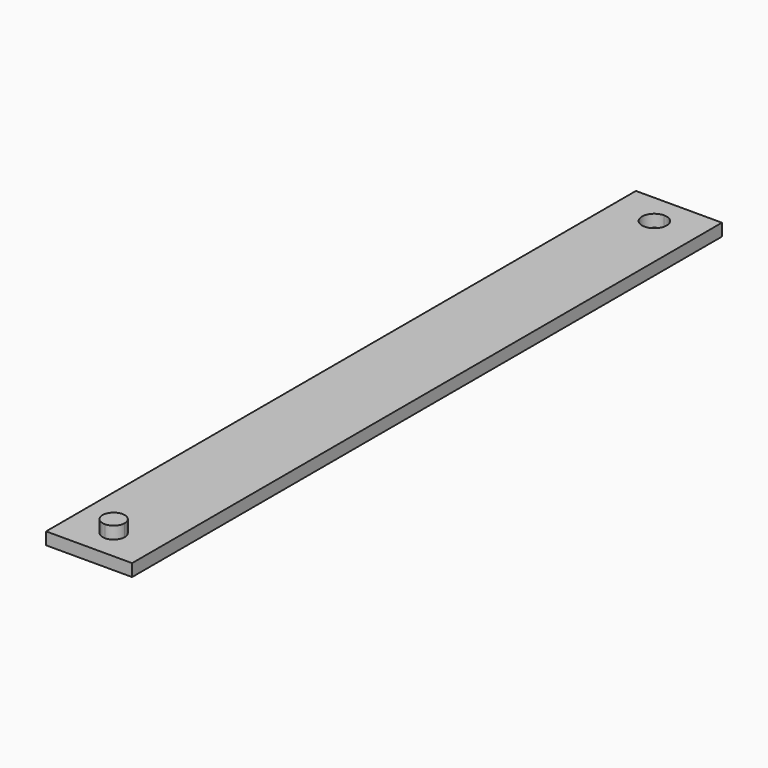
from build123d import *

# Parameters (mm, degrees)
F0_W     = 17.78
F0_H     = 152.4
F1_DEPTH = 2.54
F3_DEPTH = 2.541
F5_DEPTH = 2.54


with BuildPart() as f1:
    # F0 (on Top) → F1 (new body)
    with BuildSketch(Plane.XY):
        with Locations((-8.043494, 67.378512)):
            Rectangle(F0_W, F0_H)
    extrude(amount=F1_DEPTH)

    # F2 (on face) → F3 (cut, through all)
    with BuildSketch(Plane.XY.offset(2.54)):
        with BuildLine():
            ThreePointArc((-8.043494, 139.768512), (-9.839545, 135.432461), (-5.503494, 137.228512))
            ThreePointArc((-5.503494, 137.228512), (-6.247443, 139.024564), (-8.043494, 139.768512))
        make_face()
    extrude(amount=-F3_DEPTH, mode=Mode.SUBTRACT)

    # F4 (on face) → F5 (join)
    with BuildSketch(Plane.XY.offset(2.54)):
        with BuildLine():
            ThreePointArc((-8.043494, -4.757488), (-6.427048, -4.087934), (-5.757494, -2.471488))
            ThreePointArc((-5.757494, -2.471488), (-9.65994, -0.855042), (-8.043494, -4.757488))
        make_face()
    extrude(amount=F5_DEPTH)


solid = f1.part
